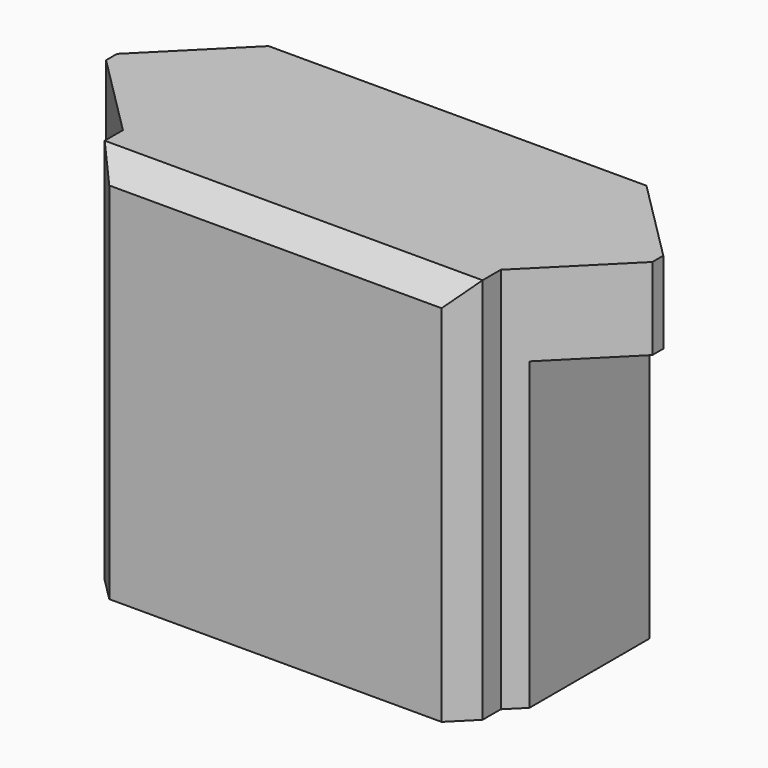
from build123d import *

# Parameters (mm, degrees)
BOX010_W          = 8.3
BOX010_H          = 1
BOX010_DEPTH      = 8.5
CHAMFER009_SIZE   = 0.5
CYLINDER005_R     = 1.55
CYLINDER005_DEPTH = 67
BOX008_W          = 12
BOX008_H          = 4
BOX008_DEPTH      = 1.8
CHAMFER006_SIZE   = 1.85
BOX007_W          = 9
BOX007_H          = 4
BOX007_DEPTH      = 7
CHAMFER007_SIZE   = 0.35


with BuildPart() as chamfer009:
    # Box010 → Box010 (new body)
    with BuildSketch(Plane(origin=(-4.15, -42, 3.5), x_dir=(1, 0, 0), z_dir=(0, 0, 1))):
        with Locations((4.15, 0.5)):
            Rectangle(BOX010_W, BOX010_H)
    extrude(amount=BOX010_DEPTH)

    # Chamfer009
    chamfer009_edges = [chamfer009.edges().sort_by_distance(p)[0] for p in [
        (-4.15, -42, 7.75),
        (4.15, -42, 7.75),
        (0, -42, 12),
    ]]
    chamfer(chamfer009_edges, length=CHAMFER009_SIZE)


with BuildPart() as cylinder005:
    # Cylinder005 → Cylinder005 (new body)
    with BuildSketch(Plane(origin=(0, 0, 9), x_dir=(1, 0, 0), z_dir=(0, -1, 0))):
        Circle(CYLINDER005_R)
    extrude(amount=CYLINDER005_DEPTH)


with BuildPart() as chamfer006:
    # Box008 → Box008 (new body)
    with BuildSketch(Plane(origin=(-6, -41, 10.2), x_dir=(1, 0, 0), z_dir=(0, 0, 1))):
        with Locations((6, 2)):
            Rectangle(BOX008_W, BOX008_H)
    extrude(amount=BOX008_DEPTH)

    # Chamfer006
    chamfer006_edges = [chamfer006.edges().sort_by_distance(p)[0] for p in [
        (-6, -41, 11.1),
        (-6, -37, 11.1),
        (6, -41, 11.1),
        (6, -37, 11.1),
    ]]
    chamfer(chamfer006_edges, length=CHAMFER006_SIZE)


with BuildPart() as fusion002:
    # Box007 → Box007 (new body)
    with BuildSketch(Plane(origin=(-4.5, -41, 3.5), x_dir=(1, 0, 0), z_dir=(0, 0, 1))):
        with Locations((4.5, 2)):
            Rectangle(BOX007_W, BOX007_H)
    extrude(amount=BOX007_DEPTH)

    # Chamfer007
    chamfer007_edges = [fusion002.edges().sort_by_distance(p)[0] for p in [
        (-4.5, -41, 7),
        (-4.5, -37, 7),
        (4.5, -41, 7),
        (4.5, -37, 7),
    ]]
    chamfer(chamfer007_edges, length=CHAMFER007_SIZE)

    # Fusion001: union Chamfer006
    add(chamfer006.part)

    # Cut004: cut Cylinder005
    add(cylinder005.part, mode=Mode.SUBTRACT)

    # Fusion002: union Chamfer009
    add(chamfer009.part)


with BuildPart() as fusion002_1:
    # Fusion002 placement: moved
    add(fusion002.part.moved(Location((0, -12, 0))))


solid = fusion002_1.part
